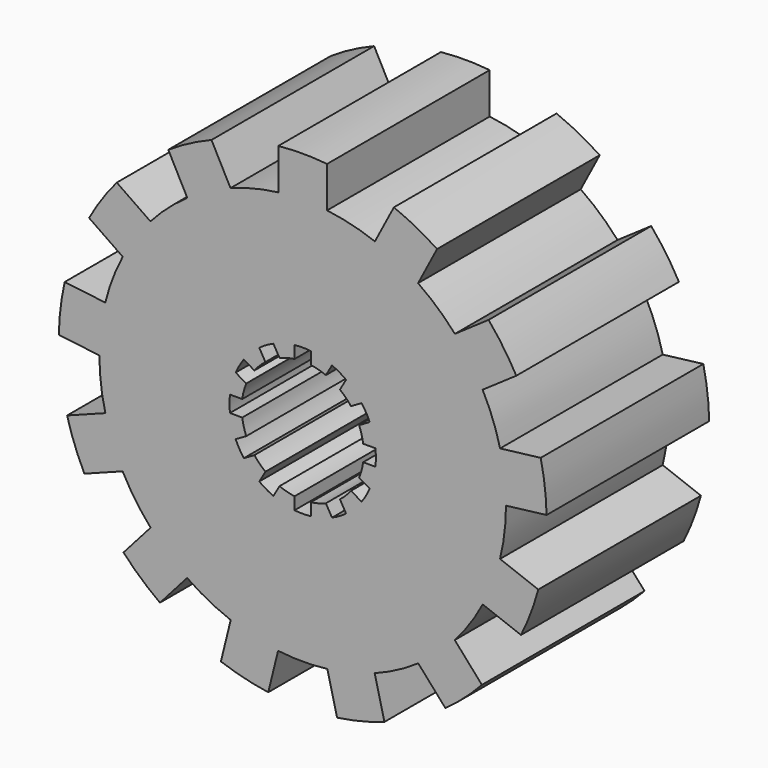
from build123d import *

# Parameters (mm, degrees)
F1_DEPTH = 25


with BuildPart() as f1:
    # F0 (on Front) → F1 (new body)
    with BuildSketch(Plane.XZ):
        with BuildLine():
            Line((-16.52818, 25.036359), (-14.190494, 20.582271))
            ThreePointArc((-14.190494, 20.582271), (-16.578066, 18.712769), (-18.721728, 16.567948))
            Line((-18.721728, 16.567948), (-22.861564, 19.42547))
            ThreePointArc((-22.861564, 19.42547), (-24.689516, 17.041942), (-26.269952, 14.487567))
            Line((-26.269952, 14.487567), (-22.130117, 11.630045))
            ThreePointArc((-22.130117, 11.630045), (-23.375406, 8.865122), (-24.276776, 5.969768))
            Line((-24.276776, 5.969768), (-29.270376, 6.576101))
            ThreePointArc((-29.270376, 6.576101), (-29.781266, 3.6161), (-29.993596, 0.619848))
            Line((-29.993596, 0.619848), (-24.999996, 0.013515))
            ThreePointArc((-24.999996, 0.013515), (-24.817722, -3.013417), (-24.270308, -5.996013))
            Line((-24.270308, -5.996013), (-28.973697, -7.779774))
            ThreePointArc((-28.973697, -7.779774), (-28.050487, -10.638147), (-26.846068, -13.389871))
            Line((-26.846068, -13.389871), (-22.142678, -11.606111))
            ThreePointArc((-22.142678, -11.606111), (-20.574597, -14.201619), (-18.703804, -16.58818))
            Line((-18.703804, -16.58818), (-22.039494, -20.353396))
            ThreePointArc((-22.039494, -20.353396), (-19.89368, -22.455322), (-17.548429, -24.332132))
            Line((-17.548429, -24.332132), (-14.212739, -20.566916))
            ThreePointArc((-14.212739, -20.566916), (-11.618079, -22.136401), (-8.852484, -23.380195))
            Line((-8.852484, -23.380195), (-10.056308, -28.2643))
            ThreePointArc((-10.056308, -28.2643), (-7.17947, -29.128255), (-4.230657, -29.700194))
            Line((-4.230657, -29.700194), (-3.026833, -24.816089))
            ThreePointArc((-3.026833, -24.816089), (0, -25), (3.026833, -24.816089))
            Line((3.026833, -24.816089), (4.230657, -29.700194))
            ThreePointArc((4.230657, -29.700194), (7.17947, -29.128255), (10.056308, -28.2643))
            Line((10.056308, -28.2643), (8.852484, -23.380195))
            ThreePointArc((8.852484, -23.380195), (11.618079, -22.136401), (14.212739, -20.566916))
            Line((14.212739, -20.566916), (17.548429, -24.332132))
            ThreePointArc((17.548429, -24.332132), (19.89368, -22.455322), (22.039494, -20.353396))
            Line((22.039494, -20.353396), (18.703804, -16.58818))
            ThreePointArc((18.703804, -16.58818), (20.574597, -14.201619), (22.142678, -11.606111))
            Line((22.142678, -11.606111), (26.846068, -13.389871))
            ThreePointArc((26.846068, -13.389871), (28.050487, -10.638147), (28.973697, -7.779774))
            Line((28.973697, -7.779774), (24.270308, -5.996013))
            ThreePointArc((24.270308, -5.996013), (24.817722, -3.013417), (24.999996, 0.013515))
            Line((24.999996, 0.013515), (29.993596, 0.619848))
            ThreePointArc((29.993596, 0.619848), (29.781266, 3.6161), (29.270376, 6.576101))
            Line((29.270376, 6.576101), (24.276776, 5.969768))
            ThreePointArc((24.276776, 5.969768), (23.375406, 8.865122), (22.130117, 11.630045))
            Line((22.130117, 11.630045), (26.269952, 14.487567))
            ThreePointArc((26.269952, 14.487567), (24.689516, 17.041942), (22.861564, 19.42547))
            Line((22.861564, 19.42547), (18.721728, 16.567948))
            ThreePointArc((18.721728, 16.567948), (16.578066, 18.712769), (14.190494, 20.582271))
            Line((14.190494, 20.582271), (16.52818, 25.036359))
            ThreePointArc((16.52818, 25.036359), (13.941695, 26.563681), (11.215443, 27.824698))
            Line((11.215443, 27.824698), (8.877758, 23.37061))
            ThreePointArc((8.877758, 23.37061), (5.982892, 24.273545), (3, 24.819347))
            Line((3, 24.819347), (3, 29.849623))
            ThreePointArc((3, 29.849623), (0, 30), (-3, 29.849623))
            Line((-3, 29.849623), (-3, 24.819347))
            ThreePointArc((-3, 24.819347), (-5.982892, 24.273545), (-8.877758, 23.37061))
            Line((-8.877758, 23.37061), (-11.215443, 27.824698))
            ThreePointArc((-11.215443, 27.824698), (-13.941695, 26.563681), (-16.52818, 25.036359))
        make_face()
        with BuildLine():
            ThreePointArc((-5.937197, 4.582543), (-5.303301, 5.303301), (-4.582543, 5.937197))
            Line((-4.582543, 5.937197), (-5.338161, 7.245967))
            ThreePointArc((-5.338161, 7.245967), (-4.5, 7.794229), (-3.606111, 8.245967))
            Line((-3.606111, 8.245967), (-2.850492, 6.937197))
            ThreePointArc((-2.850492, 6.937197), (-1.941143, 7.244444), (-1, 7.433034))
            Line((-1, 7.433034), (-1, 8.944272))
            ThreePointArc((-1, 8.944272), (0, 9), (1, 8.944272))
            Line((1, 8.944272), (1, 7.433034))
            ThreePointArc((1, 7.433034), (1.941143, 7.244444), (2.850492, 6.937197))
            Line((2.850492, 6.937197), (3.606111, 8.245967))
            ThreePointArc((3.606111, 8.245967), (4.5, 7.794229), (5.338161, 7.245967))
            Line((5.338161, 7.245967), (4.582543, 5.937197))
            ThreePointArc((4.582543, 5.937197), (5.303301, 5.303301), (5.937197, 4.582543))
            Line((5.937197, 4.582543), (7.245967, 5.338161))
            ThreePointArc((7.245967, 5.338161), (7.794229, 4.5), (8.245967, 3.606111))
            Line((8.245967, 3.606111), (6.937197, 2.850492))
            ThreePointArc((6.937197, 2.850492), (7.244444, 1.941143), (7.433034, 1))
            Line((7.433034, 1), (8.944272, 1))
            ThreePointArc((8.944272, 1), (9, 0), (8.944272, -1))
            Line((8.944272, -1), (7.433034, -1))
            ThreePointArc((7.433034, -1), (7.244444, -1.941143), (6.937197, -2.850492))
            Line((6.937197, -2.850492), (8.245967, -3.606111))
            ThreePointArc((8.245967, -3.606111), (7.794229, -4.5), (7.245967, -5.338161))
            Line((7.245967, -5.338161), (5.937197, -4.582543))
            ThreePointArc((5.937197, -4.582543), (5.303301, -5.303301), (4.582543, -5.937197))
            Line((4.582543, -5.937197), (5.338161, -7.245967))
            ThreePointArc((5.338161, -7.245967), (4.5, -7.794229), (3.606111, -8.245967))
            Line((3.606111, -8.245967), (2.850492, -6.937197))
            ThreePointArc((2.850492, -6.937197), (1.941143, -7.244444), (1, -7.433034))
            Line((1, -7.433034), (1, -8.944272))
            ThreePointArc((1, -8.944272), (0, -9), (-1, -8.944272))
            Line((-1, -8.944272), (-1, -7.433034))
            ThreePointArc((-1, -7.433034), (-1.941143, -7.244444), (-2.850492, -6.937197))
            Line((-2.850492, -6.937197), (-3.606111, -8.245967))
            ThreePointArc((-3.606111, -8.245967), (-4.5, -7.794229), (-5.338161, -7.245967))
            Line((-5.338161, -7.245967), (-4.582543, -5.937197))
            ThreePointArc((-4.582543, -5.937197), (-5.303301, -5.303301), (-5.937197, -4.582543))
            Line((-5.937197, -4.582543), (-7.245967, -5.338161))
            ThreePointArc((-7.245967, -5.338161), (-7.794229, -4.5), (-8.245967, -3.606111))
            Line((-8.245967, -3.606111), (-6.937197, -2.850492))
            ThreePointArc((-6.937197, -2.850492), (-7.244444, -1.941143), (-7.433034, -1))
            Line((-7.433034, -1), (-8.944272, -1))
            ThreePointArc((-8.944272, -1), (-9, 0), (-8.944272, 1))
            Line((-8.944272, 1), (-7.433034, 1))
            ThreePointArc((-7.433034, 1), (-7.244444, 1.941143), (-6.937197, 2.850492))
            Line((-6.937197, 2.850492), (-8.245967, 3.606111))
            ThreePointArc((-8.245967, 3.606111), (-7.794229, 4.5), (-7.245967, 5.338161))
            Line((-7.245967, 5.338161), (-5.937197, 4.582543))
        make_face(mode=Mode.SUBTRACT)
    extrude(amount=F1_DEPTH)


solid = f1.part
